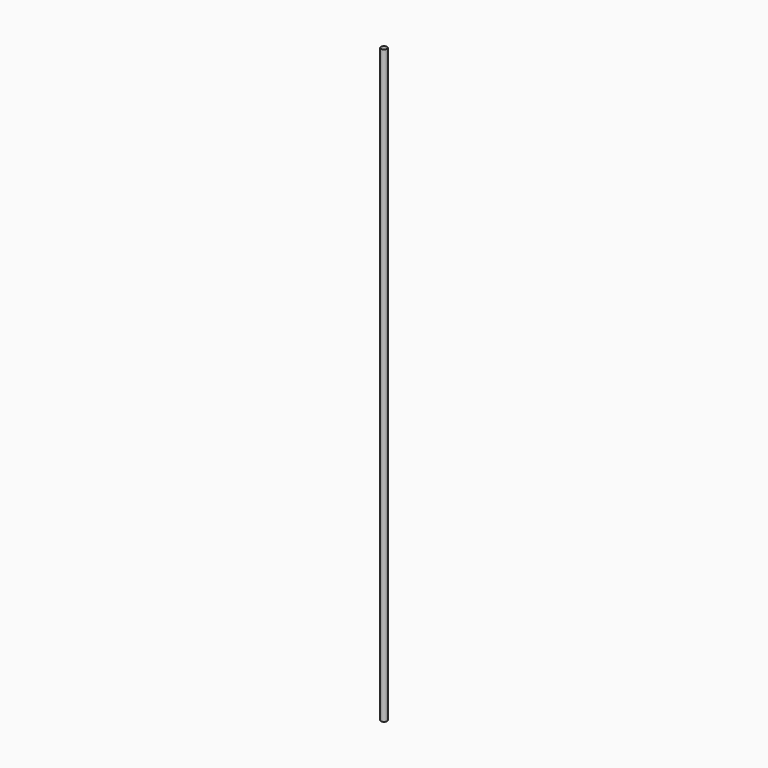
from build123d import *

# Parameters (mm, degrees)
SKETCH_R  = 5
PAD_DEPTH = 1000


with BuildPart() as part:
    # Sketch → Pad (new body)
    with BuildSketch(Plane.XY):
        Circle(SKETCH_R)
    extrude(amount=PAD_DEPTH)


solid = part.part
